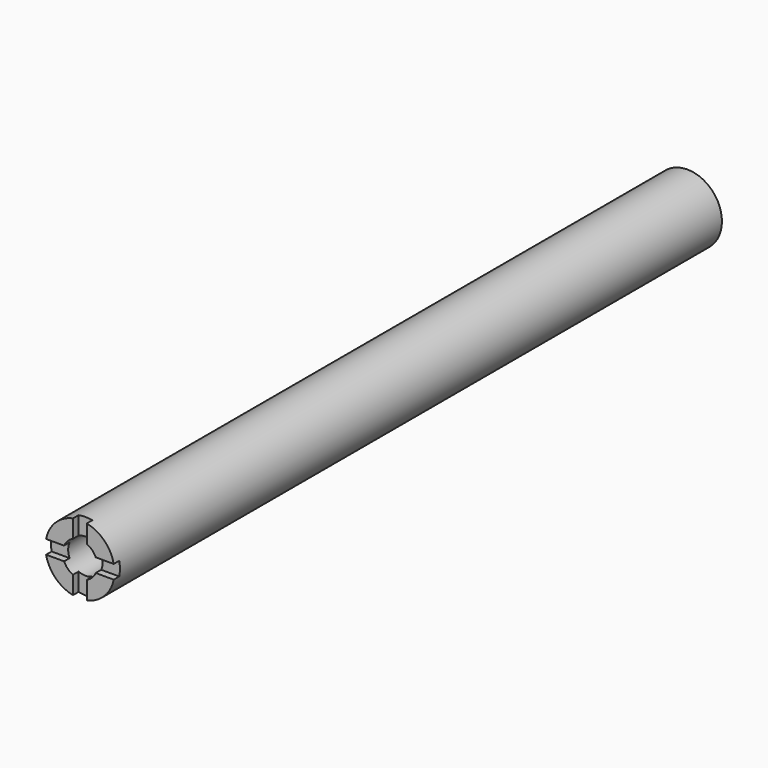
from build123d import *

# Parameters (mm, degrees)
F0_R     = 12.7
F1_DEPTH = 279.4
F2_W     = 38.1
F2_H     = 5.08
F3_DEPTH = 2.54
F4_W     = 5.08
F4_H     = 38.1
F5_DEPTH = 2.54
F6_R     = 6.35
F7_DEPTH = 25.4


with BuildPart() as f1:
    # F0 (on Front) → F1 (new body)
    with BuildSketch(Plane.XZ):
        Circle(F0_R)
    extrude(amount=-F1_DEPTH)

    # F2 (on face) → F3 (cut)
    with BuildSketch(Plane.XZ):
        with Locations((1.41298, 0)):
            Rectangle(F2_W, F2_H)
    extrude(amount=-F3_DEPTH, mode=Mode.SUBTRACT)

    # F4 (on face) → F5 (cut)
    with BuildSketch(Plane.XZ):
        with Locations((0, 3.153974)):
            Rectangle(F4_W, F4_H)
    extrude(amount=-F5_DEPTH, mode=Mode.SUBTRACT)

    # F6 (on face) → F7 (cut)
    with BuildSketch(Plane.XZ):
        Circle(F6_R)
    extrude(amount=-F7_DEPTH, mode=Mode.SUBTRACT)


solid = f1.part
